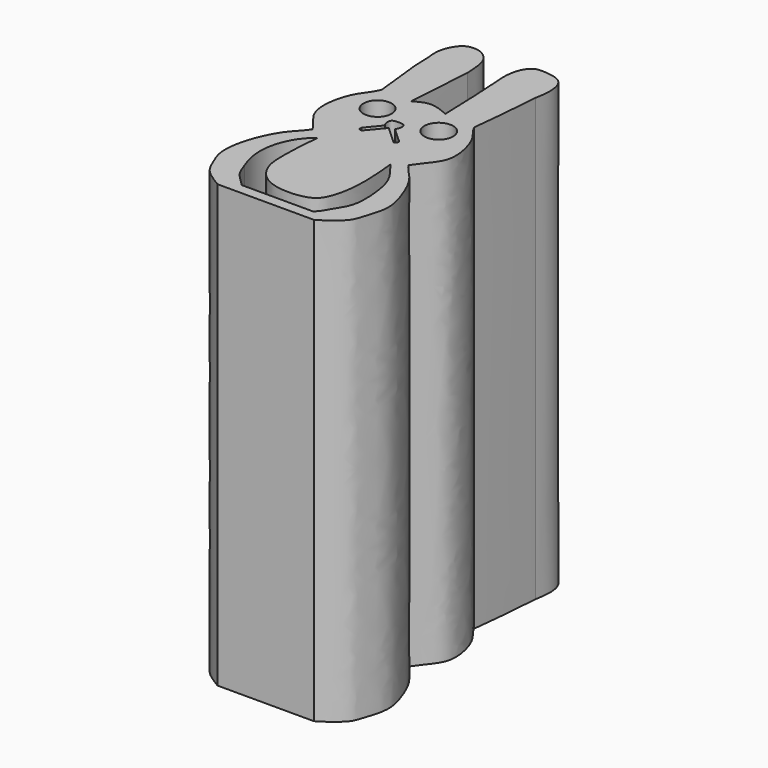
from build123d import *

# Parameters (mm, degrees)
F0_R     = 0.8084432303
F0_R_2   = 0.8247749211
F1_DEPTH = 25.4


with BuildPart() as f1:
    # F0 (on Top) → F1 (new body)
    with BuildSketch(Plane.XY):
        with BuildLine():
            add(Edge.make_bspline(
                [(-48.94567497, 35.0921936811), (-48.9700867354, 34.6514817439), (-49.0445215087, 33.6612920899), (-49.1380204425, 31.9451302817), (-49.2015108466, 31.32693097)],
                knots=[0, 0, 0, 0, 0.4432702902, 1, 1, 1, 1], degree=3))
            add(Edge.make_bspline(
                [(-51.2579139149, 35.1221363175), (-51.2931683694, 35.4182862409), (-51.3659807366, 36.0299359539), (-50.8470312547, 37.044292082), (-50.2399075251, 37.1432043473), (-49.8221412312, 37.109139219), (-49.0195194569, 36.5964248707), (-48.9726425, 35.6415292034), (-48.94567497, 35.0921936811)],
                knots=[0, 0, 0, 0, 0.175205154, 0.3618578756, 0.4963495466, 0.6124458357, 0.7770465649, 1, 1, 1, 1], degree=3))
            add(Edge.make_bspline(
                [(-51.2579139149, 35.1221363175), (-51.2507872102, 34.7726398197), (-51.2565094617, 33.9234045239), (-50.8722834695, 31.2920550281), (-50.9439182261, 31.326762404), (-50.9436607992, 31.32693097)],
                knots=[0, 0, 0, 0, 0.4222659021, 0.9728749505, 1, 1, 1, 1], degree=3))
            add(Edge.make_bspline(
                [(-50.9436607992, 31.32693097), (-51.1146265921, 30.9220613232), (-51.8142102568, 30.2826374897), (-52.2846835584, 27.7458247254), (-51.2835349885, 26.9721724102), (-50.9436607992, 26.4255098581)],
                knots=[0, 0, 0, 0, 0.2914289234, 0.6652492466, 1, 1, 1, 1], degree=3))
            add(Edge.make_bspline(
                [(-50.9436607992, 26.4255098581), (-51.1996972967, 26.0467610518), (-51.8850747703, 25.4921124492), (-52.7081030315, 23.631846396), (-52.8598157266, 22.1337429208), (-52.4998826865, 21.2576073625), (-52.0905042681, 20.2575138849), (-51.3530914343, 19.8493639769), (-50.9436607992, 19.5903577882)],
                knots=[0, 0, 0, 0, 0.1671257261, 0.3722356415, 0.5486921757, 0.6873613028, 0.8332280282, 1, 1, 1, 1], degree=3))
            Line((-50.9436607992, 19.5903577882), (-45.3953147399, 19.5903577882))
            add(Edge.make_bspline(
                [(-45.3953147399, 26.3999454593), (-45.1741050599, 26.0426096264), (-44.4479931313, 25.4680598635), (-43.7871447811, 23.9328877523), (-43.3975063279, 22.5582488181), (-43.8589479498, 21.2969881094), (-44.0438915248, 20.5096293748), (-44.8772331611, 19.8978844909), (-45.3953147399, 19.5903577882)],
                knots=[0, 0, 0, 0, 0.1659449014, 0.352385861, 0.525777445, 0.6887095262, 0.8162996163, 1, 1, 1, 1], degree=3))
            add(Edge.make_bspline(
                [(-45.3953147399, 31.121334061), (-45.2424266563, 30.7752722531), (-44.6525107064, 30.3186509417), (-43.9650710992, 27.8112796663), (-44.9717673022, 27.0709338765), (-45.3953147399, 26.3999454593)],
                knots=[0, 0, 0, 0, 0.2685806591, 0.6446946633, 1, 1, 1, 1], degree=3))
            add(Edge.make_bspline(
                [(-45.0316518959, 35.0921936811), (-45.0646700359, 34.6060497939), (-45.153919875, 33.5113484156), (-45.2903179516, 31.9752959606), (-45.3953147399, 31.121334061)],
                knots=[0, 0, 0, 0, 0.4434623611, 1, 1, 1, 1], degree=3))
            add(Edge.make_bspline(
                [(-47.388683101, 35.0906997458), (-47.4238103911, 35.481869622), (-47.4916083693, 36.2368531885), (-47.0326362531, 37.3345080859), (-46.1899536181, 37.3184853813), (-45.15315575, 37.1549733825), (-44.8584642447, 36.1304214593), (-44.9725186078, 35.4466867522), (-45.0316518959, 35.0921936811)],
                knots=[0, 0, 0, 0, 0.1830179944, 0.3532367559, 0.4992086007, 0.6639851076, 0.8257877655, 1, 1, 1, 1], degree=3))
            add(Edge.make_bspline(
                [(-47.388683101, 35.0906997458), (-47.3616542014, 34.6360873887), (-47.2863099601, 33.6256037177), (-47.2489418579, 31.9285535289), (-47.2208224237, 31.32693097)],
                knots=[0, 0, 0, 0, 0.4488812242, 1, 1, 1, 1], degree=3))
            add(Edge.make_bspline(
                [(-49.2015108466, 31.32693097), (-48.9279495231, 31.4814836465), (-48.3443117395, 31.8112187876), (-47.6106199372, 31.4949558764), (-47.2208224237, 31.32693097)],
                knots=[0, 0, 0, 0, 0.4687176382, 1, 1, 1, 1], degree=3))
        make_face()
        with BuildLine():
            add(Edge.make_bspline(
                [(-50.2325761491, 25.9499785513), (-50.4655224799, 25.7363906499), (-50.9832843028, 25.2616561443), (-51.5424136313, 23.8513598748), (-51.4338310399, 22.5469188106), (-51.2254098404, 22.0009650382), (-51.1330999434, 21.7591617256)],
                knots=[0, 0, 0, 0, 0.234088013, 0.5202994007, 0.7875402647, 1, 1, 1, 1], degree=3))
            add(Edge.make_bspline(
                [(-50.2325761491, 25.9499785513), (-50.3398137465, 25.1712935618), (-50.3732028785, 23.9732994738), (-50.4100756893, 22.3488263852), (-49.2694809275, 20.8623420605), (-46.7589633033, 20.9627692848), (-46.1972896816, 21.8646500375), (-45.856675959, 23.4609229409), (-45.9910535744, 25.1111372277), (-46.0770547515, 25.9499785513)],
                knots=[0, 0, 0, 0, 0.1542677783, 0.2877735667, 0.4275199683, 0.5884985822, 0.6921717614, 0.8275209821, 1, 1, 1, 1], degree=3))
            add(Edge.make_bspline(
                [(-46.0770547515, 25.9499785513), (-45.7723496777, 25.5548194214), (-45.1547210687, 24.8169202123), (-44.8881733959, 23.5715775854), (-44.7830767289, 21.9112118037), (-45.3798931708, 21.003275973), (-45.7169332064, 20.3817556941), (-45.9415591858, 20.2030632645)],
                knots=[0, 0, 0, 0, 0.21356601, 0.4151522518, 0.6408809747, 0.8264184505, 1, 1, 1, 1], degree=3))
            Line((-45.9415591858, 20.2030632645), (-50.0572621822, 20.2030632645))
            add(Edge.make_bspline(
                [(-51.1330999434, 21.7591617256), (-51.0307709021, 21.5079777824), (-50.8903979519, 20.923066465), (-50.2118328147, 20.4134555105), (-50.0572621822, 20.2030632645)],
                knots=[0, 0, 0, 0, 0.476523389, 1, 1, 1, 1], degree=3))
        make_face(mode=Mode.SUBTRACT)
        with Locations((-49.9237030745, 29.8290941864)):
            Circle(F0_R, mode=Mode.SUBTRACT)
        with BuildLine():
            Line((-49.317676574, 27.935732156), (-48.6351251602, 28.7671871483))
            add(Edge.make_bspline(
                [(-48.6351251602, 28.7671871483), (-48.679774631, 28.8198603186), (-48.7789763121, 28.9368889632), (-48.7624433674, 29.3227736993), (-48.5010634785, 29.3828339325), (-48.2342472207, 29.3921870931), (-47.9230275469, 29.3401126903), (-47.943621411, 28.929208535), (-48.031743692, 28.8106966839), (-48.070654273, 28.7583675236)],
                knots=[0, 0, 0, 0, 0.1298743709, 0.2885533852, 0.4204781245, 0.568086586, 0.7090421369, 0.8715269355, 1, 1, 1, 1], degree=3))
            Line((-48.070654273, 28.7583675236), (-47.162655741, 27.935732156))
            add(Edge.make_bspline(
                [(-47.162655741, 27.935732156), (-47.1550883883, 27.8970556482), (-47.1524573928, 27.8169465621), (-47.2059334559, 27.7709223357), (-47.306810607, 27.7052337727)],
                knots=[0, 0, 0, 0, 0.414872361, 0.9945990136, 0.9945990136, 0.9945990136, 0.9945990136], degree=3))
            Line((-47.306810607, 27.7052337727), (-47.3096482456, 27.7081299573))
            Line((-47.3096482456, 27.7081299573), (-48.3480840921, 28.6706984043))
            Line((-48.3480840921, 28.6706984043), (-49.1547062993, 27.7083646506))
            add(Edge.make_bspline(
                [(-49.317676574, 27.935732156), (-49.3306744995, 27.8714192357), (-49.355272896, 27.7525684037), (-49.2239393202, 27.722559416), (-49.1547062993, 27.7083646506)],
                knots=[0, 0, 0, 0, 0.4867518931, 1, 1, 1, 1], degree=3))
        make_face(mode=Mode.SUBTRACT)
        with Locations((-46.4020557702, 29.8290941864)):
            Circle(F0_R_2, mode=Mode.SUBTRACT)
    extrude(amount=F1_DEPTH)


solid = f1.part
